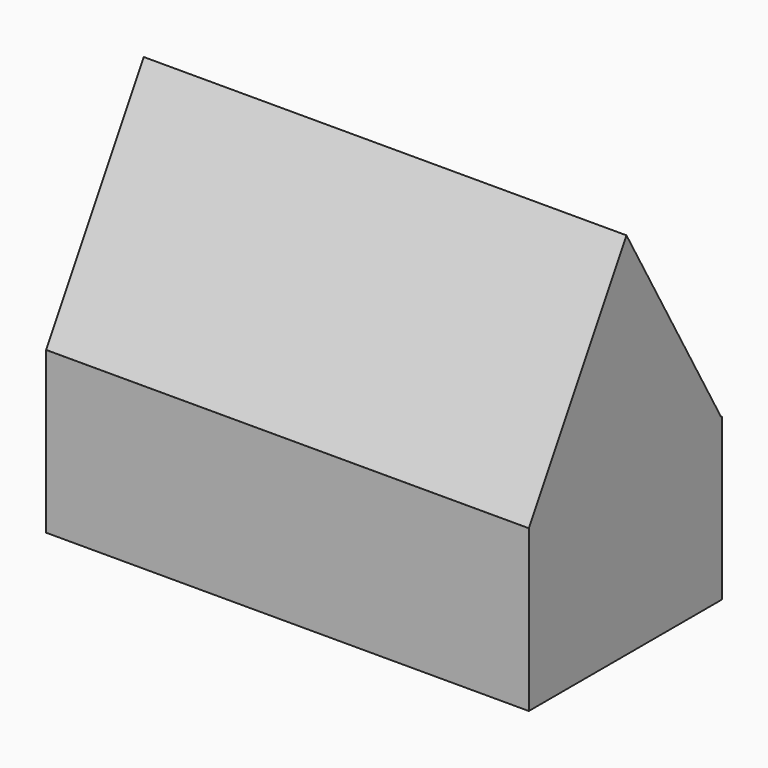
from build123d import *

# Parameters (mm, degrees)
F0_W     = 76.2
F0_H     = 38.1
F1_DEPTH = 25.4
F3_DEPTH = 76.2


with BuildPart() as f1:
    # F0 (on Top) → F1 (new body)
    with BuildSketch(Plane.XY):
        with Locations((-38.1, 19.05)):
            Rectangle(F0_W, F0_H)
    extrude(amount=F1_DEPTH)

    # F2 (on Right) → F3 (join)
    with BuildSketch(Plane.YZ):
        Polygon((38.09923, 25.16166), (19.259408, 58.277685), (0, 25.403908), align=None)
    extrude(amount=-F3_DEPTH)


solid = f1.part
